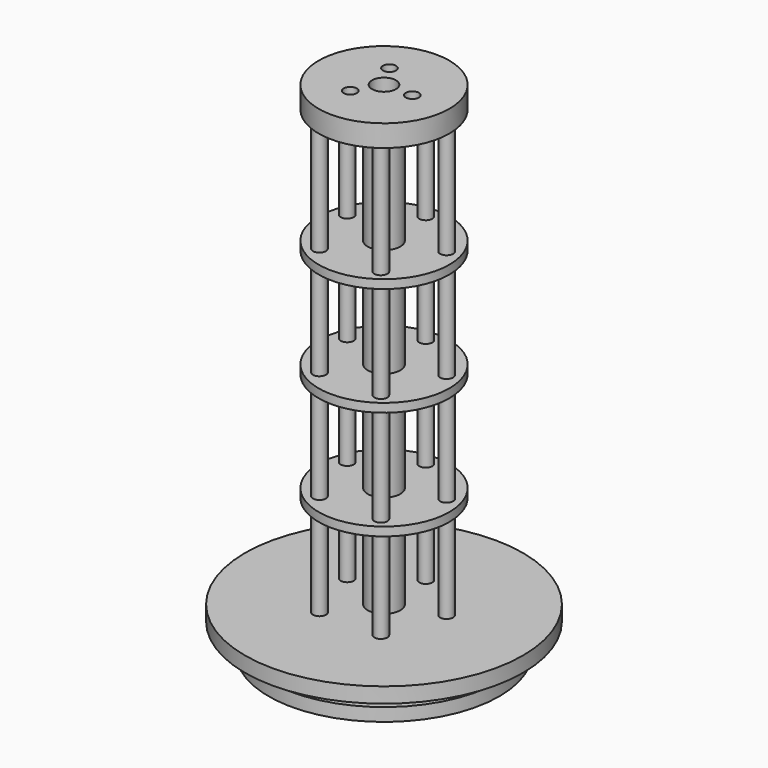
from build123d import *

# Parameters (mm, degrees)
TUBE008_R         = 15
TUBE008_R_2       = 3.75
TUBE008_DEPTH     = 2
ARRAY002_Z_COUNT  = 3
ARRAY002_Z_PITCH  = 25
TUBE007_R         = 3.75
TUBE007_R_2       = 2.75
TUBE007_DEPTH     = 100
CYLINDER004_R     = 1.5
CYLINDER004_DEPTH = 100
ARRAY001_COUNT    = 5
CYLINDER005_R     = 1.5
CYLINDER005_DEPTH = 10
ARRAY007_COUNT    = 3
TUBE006_R         = 15
TUBE006_R_2       = 2.75
TUBE006_DEPTH     = 5
CYLINDER001_R     = 23.8
CYLINDER001_DEPTH = 3.5
CYLINDER006_R     = 31.9
CYLINDER006_DEPTH = 3.5
CYLINDER_R        = 26.5
CYLINDER_DEPTH    = 3


with BuildPart() as pistonshaftspacers:
    # Tube008 → Tube008 (new body)
    with BuildSketch(Plane.XY.offset(31.5)):
        Circle(TUBE008_R)
        Circle(TUBE008_R_2, mode=Mode.SUBTRACT)
    extrude(amount=TUBE008_DEPTH)

    # Array002 Z: PistonShaftSpacers ×3


with BuildPart() as pistonshaftspacers_1:
    add(pistonshaftspacers.part)
    with Locations(*[(0, 0, i * ARRAY002_Z_PITCH) for i in range(1, ARRAY002_Z_COUNT)]):
        add(pistonshaftspacers.part)


with BuildPart() as pistonshaft:
    # Tube007 → Tube007 (new body)
    with BuildSketch(Plane.XY.offset(10)):
        Circle(TUBE007_R)
        Circle(TUBE007_R_2, mode=Mode.SUBTRACT)
    extrude(amount=TUBE007_DEPTH)


with BuildPart() as obj1:
    # Cylinder004 → Cylinder004 (new body)
    with BuildSketch(Plane(origin=(0, 12, 10), x_dir=(1, 0, 0), z_dir=(0, 0, 1))):
        Circle(CYLINDER004_R)
    extrude(amount=CYLINDER004_DEPTH)

    # Array001: obj1 ×5 about axis
    array001_axis = Axis((0, 0, 0), (0, 0, 1))


with BuildPart() as obj1_1:
    add(obj1.part)
    for i in range(1, ARRAY001_COUNT):
        add(obj1.part.rotate(array001_axis, i * 360 / ARRAY001_COUNT))


with BuildPart() as pistonconnectorscrewcutters:
    # Cylinder005 → Cylinder005 (new body)
    with BuildSketch(Plane(origin=(6.5, 0, 110), x_dir=(1, 0, 0), z_dir=(0, 0, 1))):
        Circle(CYLINDER005_R)
    extrude(amount=CYLINDER005_DEPTH)

    # Array007: PistonConnectorScrewCutters ×3 about axis
    array007_axis = Axis((0, 0, 0), (0, 0, 1))


with BuildPart() as pistonconnectorscrewcutters_1:
    add(pistonconnectorscrewcutters.part)
    for i in range(1, ARRAY007_COUNT):
        add(pistonconnectorscrewcutters.part.rotate(array007_axis, i * 360 / ARRAY007_COUNT))


with BuildPart() as pistonnutconnectorcutted:
    # Tube006 → Tube006 (new body)
    with BuildSketch(Plane.XY.offset(110)):
        Circle(TUBE006_R)
        Circle(TUBE006_R_2, mode=Mode.SUBTRACT)
    extrude(amount=TUBE006_DEPTH)

    # Cut: cut PistonConnectorScrewCutters
    add(pistonconnectorscrewcutters_1.part, mode=Mode.SUBTRACT)


with BuildPart() as pistonbaseinner:
    # Cylinder001 → Cylinder001 (new body)
    with BuildSketch(Plane.XY.offset(3)):
        Circle(CYLINDER001_R)
    extrude(amount=CYLINDER001_DEPTH)


with BuildPart() as pistonguard:
    # Cylinder006 → Cylinder006 (new body)
    with BuildSketch(Plane.XY.offset(6.5)):
        Circle(CYLINDER006_R)
    extrude(amount=CYLINDER006_DEPTH)


with BuildPart() as piston:
    # Cylinder → Cylinder (new body)
    with BuildSketch(Plane.XY):
        Circle(CYLINDER_R)
    extrude(amount=CYLINDER_DEPTH)

    # Fusion005: union PistonBaseInner, PistonGuard
    add(pistonbaseinner.part)
    add(pistonguard.part)

    # Fusion006: union PistonShaftSpacers, PistonShaft, obj1, PistonNutConnectorCutted
    add(pistonshaftspacers_1.part)
    add(pistonshaft.part)
    add(obj1_1.part)
    add(pistonnutconnectorcutted.part)


solid = piston.part
